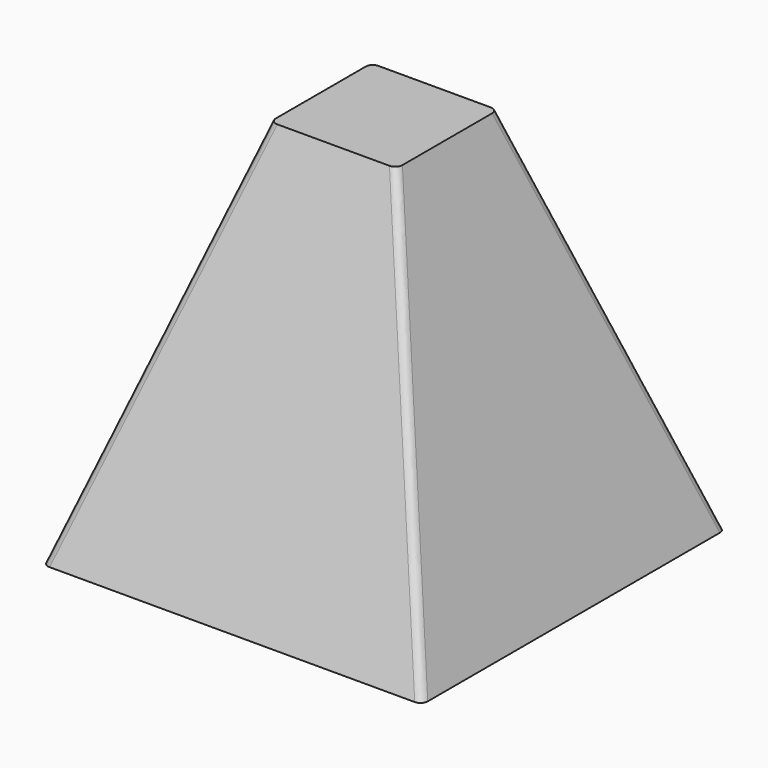
from build123d import *

# Parameters (mm, degrees)
F0_W = 150
F0_H = 150
F2_W = 50
F2_H = 50
F4_R = 3


with BuildPart() as f3:
    # F0 (on Top) → F3 section 0
    with BuildSketch(Plane.XY):
        Rectangle(F0_W, F0_H)
    # F2 (on offset) → F3 section 1
    with BuildSketch(Plane.XY.offset(150)):
        Rectangle(F2_W, F2_H)
    loft()

    # F4
    f4_edges = [f3.edges().sort_by_distance(p)[0] for p in [
        (50, -50, 75),
        (-50, -50, 75),
        (50, 50, 75),
        (-50, 50, 75),
    ]]
    fillet(f4_edges, radius=F4_R)


solid = f3.part
